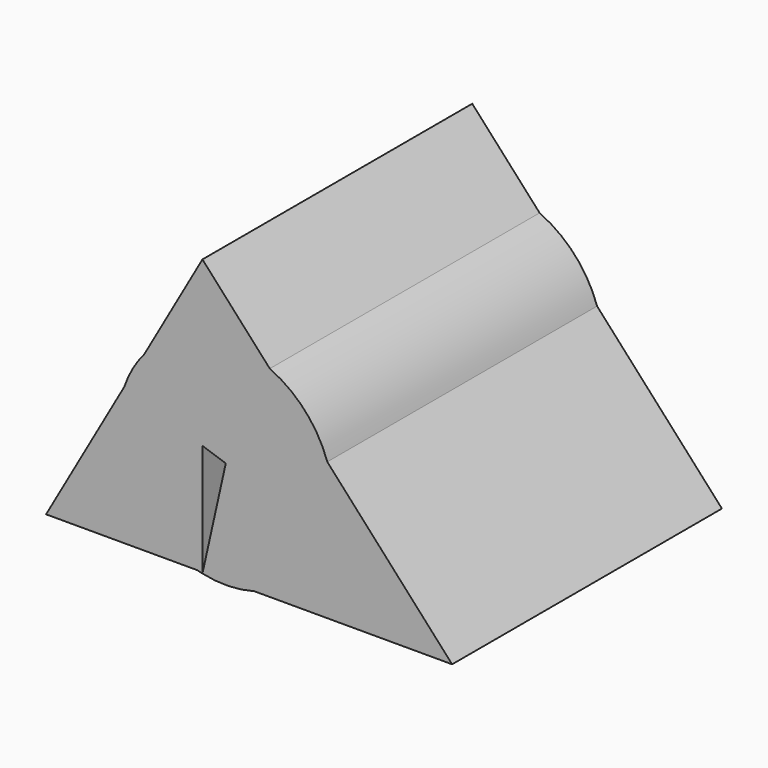
from build123d import *

# Parameters (mm, degrees)
F1_DEPTH = 25.4


with BuildPart() as f1:
    # F0 (on Front) → F1 (new body, symmetric)
    with BuildSketch(Plane.XZ):
        with BuildLine():
            Line((10.1457036672, 30.470579724), (0, 41.656))
            Line((0, 41.656), (0, 31.508670436))
            ThreePointArc((0, 31.508670436), (5.1569935227, 31.8119777257), (10.1457036672, 30.470579724))
        make_face()
        with BuildLine():
            Line((0, 31.508670436), (0, 41.656))
            Line((0, 41.656), (-8.756137699, 26.2419914434))
            ThreePointArc((-8.756137699, 26.2419914434), (-4.8058091687, 29.5864722756), (0, 31.508670436))
        make_face()
        with BuildLine():
            ThreePointArc((10.1457036672, 30.470579724), (5.1569935227, 31.8119777257), (0, 31.508670436))
            Line((0, 31.508670436), (0, 16.9421989105))
            Line((0, 16.9421989105), (3.5140035349, 15.754335218))
            Line((3.5140035349, 15.754335218), (18.8054385349, 20.9234081179))
            Line((18.8054385349, 20.9234081179), (10.1457036672, 30.470579724))
        make_face()
        with BuildLine():
            Line((0, 16.9421989105), (0, 31.508670436))
            ThreePointArc((0, 31.508670436), (-4.8058091687, 29.5864722756), (-8.756137699, 26.2419914434))
            Line((-8.756137699, 26.2419914434), (-11.7774314651, 20.9234081179))
            Line((-11.7774314651, 20.9234081179), (0, 16.9421989105))
        make_face()
        with BuildLine():
            Line((-11.7774314651, 20.9234081179), (-8.756137699, 26.2419914434))
            ThreePointArc((-8.756137699, 26.2419914434), (-10.5210224099, 23.7271230448), (-11.7774314651, 20.9234081179))
        make_face()
        with BuildLine():
            ThreePointArc((18.8054385349, 20.9234081179), (15.4698843024, 26.5988828839), (10.1457036672, 30.470579724))
            Line((10.1457036672, 30.470579724), (18.8054385349, 20.9234081179))
        make_face()
        with BuildLine():
            Line((0, 0.1908162359), (0, 16.9421989105))
            Line((0, 16.9421989105), (-11.7774314651, 20.9234081179))
            ThreePointArc((-11.7774314651, 20.9234081179), (-10.7417658612, 8.1833156084), (-0.7666711662, 0.1908162359))
            Line((-0.7666711662, 0.1908162359), (0, 0.1908162359))
        make_face()
        with BuildLine():
            ThreePointArc((-0.7666711662, 0.1908162359), (-10.7417658612, 8.1833156084), (-11.7774314651, 20.9234081179))
            Line((-11.7774314651, 20.9234081179), (-23.5548629301, 0.1908162359))
            Line((-23.5548629301, 0.1908162359), (-0.7666711662, 0.1908162359))
        make_face()
        with BuildLine():
            Line((37.6108770699, 0.1908162359), (18.8054385349, 20.9234081179))
            ThreePointArc((18.8054385349, 20.9234081179), (19.4415528517, 18.3735854476), (19.6554811316, 15.754335218))
            ThreePointArc((19.6554811316, 15.754335218), (16.35230003, 5.9703972527), (7.7946782361, 0.1908162359))
            Line((7.7946782361, 0.1908162359), (37.6108770699, 0.1908162359))
        make_face()
        with BuildLine():
            ThreePointArc((19.6554811316, 15.754335218), (19.4415528517, 18.3735854476), (18.8054385349, 20.9234081179))
            Line((18.8054385349, 20.9234081179), (3.5140035349, 15.754335218))
            Line((3.5140035349, 15.754335218), (0.0425615501, 0.1908162359))
            Line((0.0425615501, 0.1908162359), (7.7946782361, 0.1908162359))
            ThreePointArc((7.7946782361, 0.1908162359), (16.35230003, 5.9703972527), (19.6554811316, 15.754335218))
        make_face()
        Polygon((0.0425615501, 0.1908162359), (0, 0.1908162359), (0, 0), align=None)
        with BuildLine():
            Line((0, 0), (0, 0.1908162359))
            Line((0, 0.1908162359), (-0.7666711662, 0.1908162359))
            ThreePointArc((-0.7666711662, 0.1908162359), (-0.3845032189, 0.0907167314), (0, 0))
        make_face()
        with BuildLine():
            Line((0.0425615501, 0.1908162359), (0, 0))
            ThreePointArc((0, 0), (3.9090337594, -0.3823078693), (7.7946782361, 0.1908162359))
            Line((7.7946782361, 0.1908162359), (0.0425615501, 0.1908162359))
        make_face()
    extrude(amount=F1_DEPTH, both=True)


solid = f1.part
